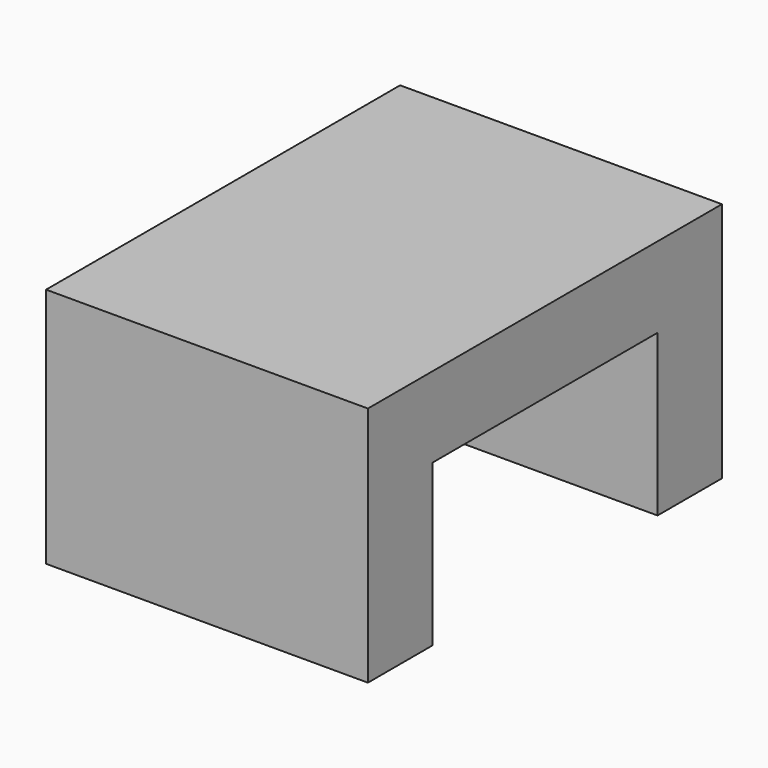
from build123d import *

# Parameters (mm, degrees)
F0_W     = 40
F0_H     = 35
F1_DEPTH = 30
F0_H_2   = 10
F2_DEPTH = 30
F3_W     = 40
F3_H     = 35
F4_DEPTH = 20


with BuildPart() as f1:
    # F0 (on Top) → F1 (new body)
    with BuildSketch(Plane.XY):
        with Locations((-0.33484, 0.644105)):
            Rectangle(F0_W, F0_H)
    extrude(amount=F1_DEPTH)

    # F0 (on Top) → F2 (join)
    with BuildSketch(Plane.XY):
        with Locations((-0.33484, 23.144105)):
            Rectangle(F0_W, F0_H_2)
        with Locations((-0.33484, 0.644105)):
            Rectangle(F0_W, F0_H)
        with Locations((-0.33484, -21.855895)):
            Rectangle(F0_W, F0_H_2)
    extrude(amount=F2_DEPTH)

    # F3 (on face) → F4 (cut)
    with BuildSketch(Plane(origin=(0, 0, 0), x_dir=(1, 0, 0), z_dir=(0, 0, -1))):
        with Locations((-0.33484, -0.644105)):
            Rectangle(F3_W, F3_H)
    extrude(amount=-F4_DEPTH, mode=Mode.SUBTRACT)


solid = f1.part
